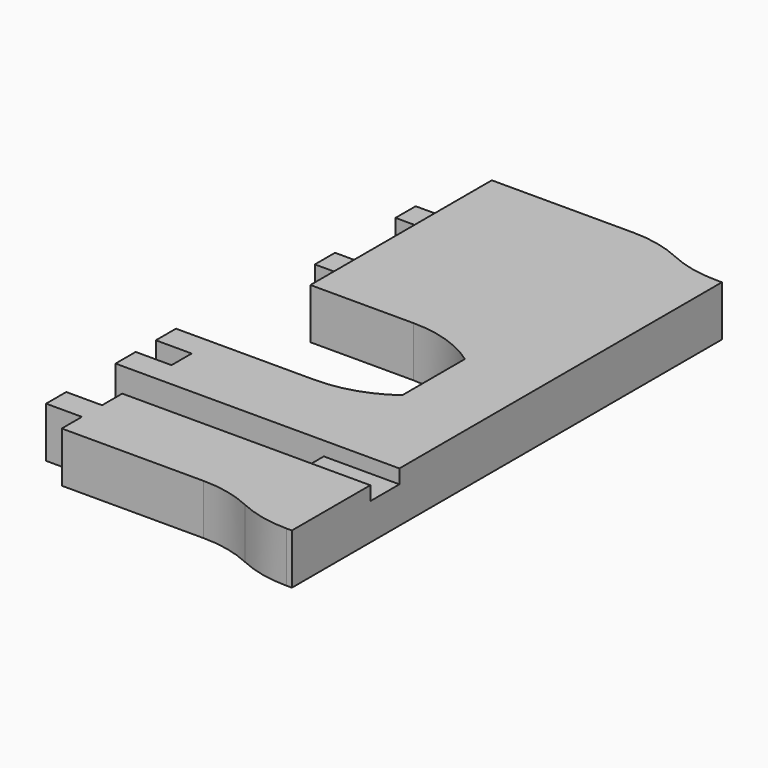
from build123d import *

# Parameters (mm, degrees)
PAD_DEPTH                = 18
SKETCH007_W              = 12.8
SKETCH007_H              = 45
POCKET002_DEPTH          = 5
SKETCH010_W              = 27
SKETCH010_H              = 13
POCKET005_DEPTH          = 5
CLONE004_PITCH_ANGLE     = -90
CLONE004_PLACEMENT_ANGLE = -90


with BuildPart() as part:
    # Clone2D → Pad (new body)
    with BuildSketch(Plane.YZ):
        with BuildLine():
            ThreePointArc((75, 196), (83.780456, 193.01205), (93, 192))
            Line((93, 192), (95, 192))
            Line((95, 192), (95, 0))
            Line((95, 0), (93, 0))
            ThreePointArc((93, 0), (83.780456, 1.01205), (75, 4))
            ThreePointArc((75, 4), (66.219544, 6.98795), (57, 8))
            Line((57, 8), (6.4, 8))
            Line((6.4, 8), (6.4, 17))
            Line((6.4, 17), (-6.4, 17))
            Line((-6.4, 17), (-6.4, 26))
            Line((-6.4, 26), (6.4, 26))
            Line((6.4, 26), (6.4, 35))
            Line((6.4, 35), (68, 35))
            Line((68, 35), (68, 48))
            Line((68, 48), (-6.4, 48))
            Line((-6.4, 48), (-6.4, 57))
            Line((-6.4, 57), (6.4, 57))
            Line((6.4, 57), (6.4, 66))
            Line((6.4, 66), (-6.4, 66))
            Line((-6.4, 66), (-6.4, 75))
            Line((-6.4, 75), (43.180653, 75))
            ThreePointArc((43.180653, 75), (56.219058, 77.049413), (68, 83))
            Line((68, 83), (68, 111))
            ThreePointArc((68, 111), (56.219058, 116.950587), (43.180653, 119))
            Line((43.180653, 119), (6.4, 119))
            Line((6.4, 119), (6.4, 137))
            Line((6.4, 137), (-6.4, 137))
            Line((-6.4, 137), (-6.4, 146))
            Line((-6.4, 146), (6.4, 146))
            Line((6.4, 146), (6.4, 173))
            Line((6.4, 173), (-6.4, 173))
            Line((-6.4, 173), (-6.4, 182))
            Line((-6.4, 182), (6.4, 182))
            Line((6.4, 182), (6.4, 200))
            Line((6.4, 200), (57, 200))
            ThreePointArc((57, 200), (66.219544, 198.98795), (75, 196))
        make_face()
    extrude(amount=PAD_DEPTH)

    # Sketch007 (on Face38 of Pad) → Pocket002 (cut)
    with BuildSketch(Plane.YZ.offset(18)):
        with Locations((0, 159.5)):
            Rectangle(SKETCH007_W, SKETCH007_H)
    extrude(amount=-POCKET002_DEPTH, mode=Mode.SUBTRACT)

    # Sketch010 (on Face5 of Pocket002) → Pocket005 (cut)
    with BuildSketch(Plane.YZ.offset(18)):
        with Locations((81.5, 41.5)):
            Rectangle(SKETCH010_W, SKETCH010_H)
    extrude(amount=-POCKET005_DEPTH, mode=Mode.SUBTRACT)


with BuildPart() as part_1:
    # Clone004 pitch: moved
    add(part.part.rotate(Axis((0, 0, 0), (0, 1, 0)), CLONE004_PITCH_ANGLE))


with BuildPart() as part_2:
    # Clone004 placement: moved
    add(part_1.part.moved(Location((21.5, 0, 0))).rotate(Axis((21.5, 0, 0), (0, 0, 1)), CLONE004_PLACEMENT_ANGLE))


solid = part_2.part
